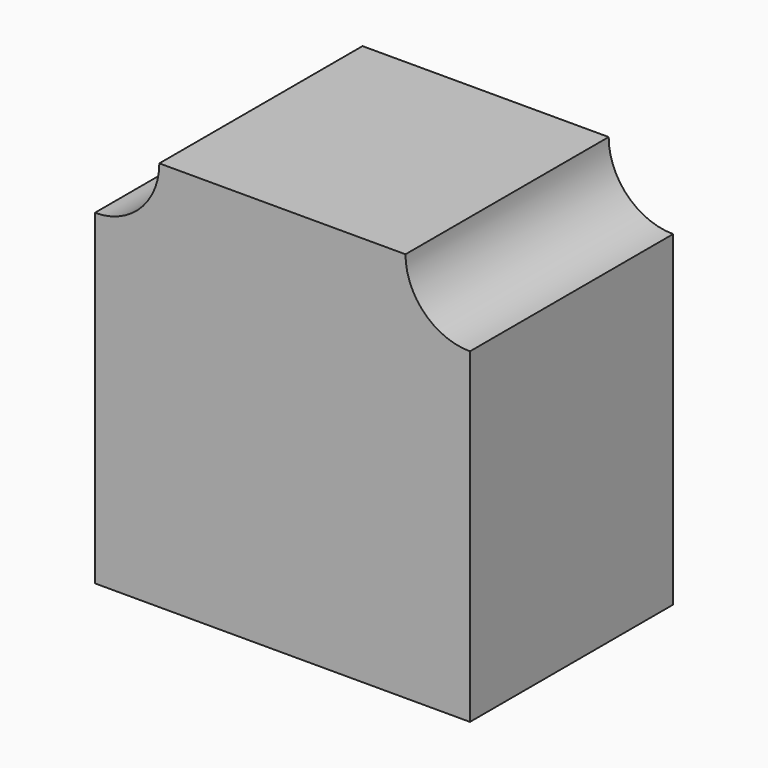
from build123d import *

# Parameters (mm, degrees)
F1_DEPTH = 325


with BuildPart() as f1:
    # F0 (on Front) → F1 (new body, symmetric)
    with BuildSketch(Plane.XZ):
        with BuildLine():
            Line((-480, 835), (-480, 0))
            Line((-480, 0), (480, 0))
            Line((480, 0), (480, 835))
            ThreePointArc((480, 835), (363.327381, 883.327381), (315, 1000))
            Line((315, 1000), (-315, 1000))
            ThreePointArc((-315, 1000), (-363.327381, 883.327381), (-480, 835))
        make_face()
    extrude(amount=F1_DEPTH, both=True)


solid = f1.part
